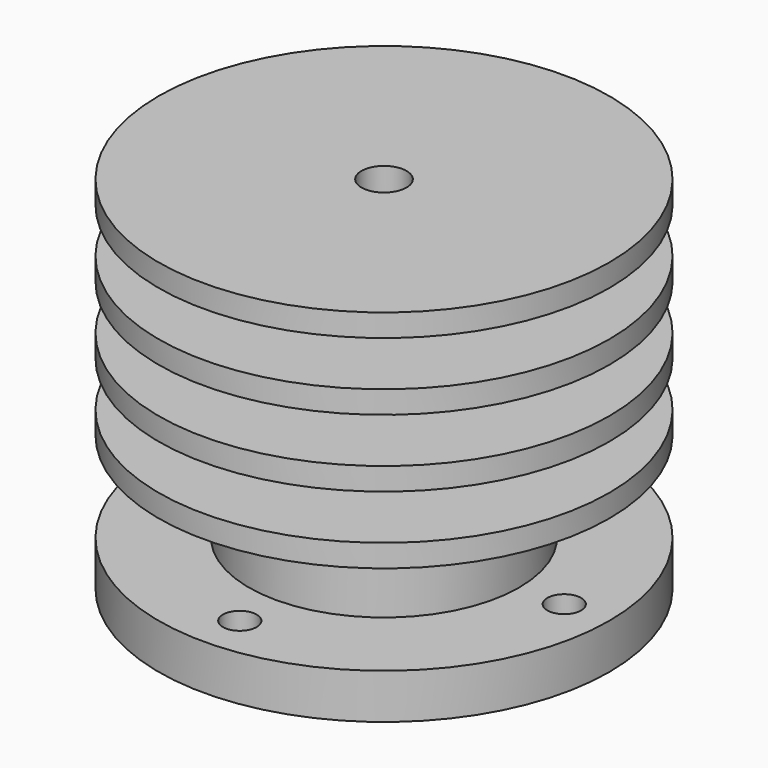
from build123d import *

# Parameters (mm, degrees)
F0_R          = 19.05
F1_DEPTH      = 25.4
F1_DEPTH_BACK = 25.4
F2_R          = 31.75
F2_R_2        = 2.38125
F2_R_3        = 19.05
F3_DEPTH      = 6.35
F4_R          = 12.7
F5_DEPTH      = 41.275
F6_R          = 3.175
F7_DEPTH      = 9.525
F8_R          = 31.75
F8_R_2        = 19.05
F9_DEPTH      = 3.175
F13_R         = 31.75
F13_R_2       = 12.7
F14_DEPTH     = 3.175
F15_R         = 31.75
F15_R_2       = 12.7
F16_DEPTH     = 3.175
F17_R         = 31.75
F17_R_2       = 12.7
F18_DEPTH     = 3.175


with BuildPart() as f1:
    # F0 (on Top) → F1 (new body, two sides)
    with BuildSketch(Plane.XY) as f1_sk:
        Circle(F0_R)
    extrude(amount=F1_DEPTH)
    extrude(f1_sk.sketch, amount=-F1_DEPTH_BACK)

    # F2 (on face) → F3 (join)
    with BuildSketch(Plane(origin=(0, 0, -25.4), x_dir=(1, 0, 0), z_dir=(0, 0, -1))):
        Circle(F2_R)
        with Locations((0, -25.4)):
            Circle(F2_R_2, mode=Mode.SUBTRACT)
        with Locations((-25.4, 0)):
            Circle(F2_R_2, mode=Mode.SUBTRACT)
        Circle(F2_R_3, mode=Mode.SUBTRACT)
        with Locations((25.4, 0)):
            Circle(F2_R_2, mode=Mode.SUBTRACT)
        with Locations((0, 25.4)):
            Circle(F2_R_2, mode=Mode.SUBTRACT)
    extrude(amount=-F3_DEPTH)

    # F4 (on face) → F5 (cut)
    with BuildSketch(Plane(origin=(0, 0, -25.4), x_dir=(1, 0, 0), z_dir=(0, 0, -1))):
        Circle(F4_R)
    extrude(amount=-F5_DEPTH, mode=Mode.SUBTRACT)

    # F6 (on face) → F7 (cut)
    with BuildSketch(Plane.XY.offset(25.4)):
        Circle(F6_R)
    extrude(amount=-F7_DEPTH, mode=Mode.SUBTRACT)

    # F8 (on face) → F9 (join)
    with BuildSketch(Plane.XY.offset(25.4)):
        Circle(F8_R)
        Circle(F8_R_2, mode=Mode.SUBTRACT)
    extrude(amount=-F9_DEPTH)

    # F13 (on offset) → F14 (join)
    with BuildSketch(Plane(origin=(0, 0, 15.875), x_dir=(1, 0, 0), z_dir=(0, 0, -1))):
        Circle(F13_R)
        Circle(F13_R_2, mode=Mode.SUBTRACT)
    extrude(amount=F14_DEPTH)

    # F15 (on offset) → F16 (join)
    with BuildSketch(Plane(origin=(0, 0, 6.35), x_dir=(1, 0, 0), z_dir=(0, 0, -1))):
        Circle(F15_R)
        Circle(F15_R_2, mode=Mode.SUBTRACT)
    extrude(amount=F16_DEPTH)

    # F17 (on offset) → F18 (join)
    with BuildSketch(Plane(origin=(0, 0, -3.175), x_dir=(1, 0, 0), z_dir=(0, 0, -1))):
        Circle(F17_R)
        Circle(F17_R_2, mode=Mode.SUBTRACT)
    extrude(amount=F18_DEPTH)


solid = f1.part
